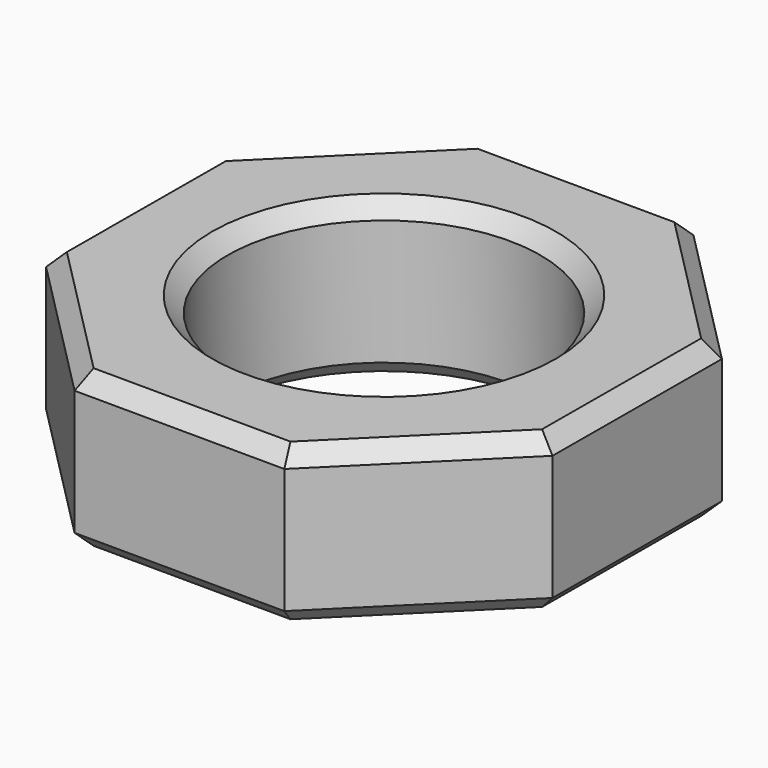
from build123d import *

# Parameters (mm, degrees)
F1_DEPTH = 20
F2_R     = 20
F3_DEPTH = 20.001
F4_SIZE  = 2


with BuildPart() as f1:
    # F0 (on Top) → F1 (new body)
    with BuildSketch(Plane.XY):
        Polygon((32.5642426406, 13.3057863628), (13.6177850292, 32.4350085615), (-13.3057863628, 32.5642426406), (-32.4350085615, 13.6177850292), (-32.5642426406, -13.3057863628), (-13.6177850292, -32.4350085615), (13.3057863628, -32.5642426406), (32.4350085615, -13.6177850292), align=None)
    extrude(amount=F1_DEPTH)

    # F2 (on face) → F3 (cut, through all)
    with BuildSketch(Plane(origin=(0, 0, 0), x_dir=(1, 0, 0), z_dir=(0, 0, -1))):
        Circle(F2_R)
    extrude(amount=-F3_DEPTH, mode=Mode.SUBTRACT)

    # F4
    f4_edges = [f1.edges().sort_by_distance(p)[0] for p in [
        (23.091014, 22.870397, 20),
        (32.499626, -0.155999, 20),
        (0.155999, 32.499626, 20),
        (22.870397, -23.091014, 20),
        (-22.870397, 23.091014, 20),
        (-0.155999, -32.499626, 20),
        (-32.499626, 0.155999, 20),
        (-23.091014, -22.870397, 20),
        (-20, 0, 20),
        (23.091014, 22.870397, 0),
        (32.499626, -0.155999, 0),
        (0.155999, 32.499626, 0),
        (22.870397, -23.091014, 0),
        (-22.870397, 23.091014, 0),
        (-0.155999, -32.499626, 0),
        (-32.499626, 0.155999, 0),
        (-23.091014, -22.870397, 0),
        (-20, 0, 0),
    ]]
    chamfer(f4_edges, length=F4_SIZE)


solid = f1.part
